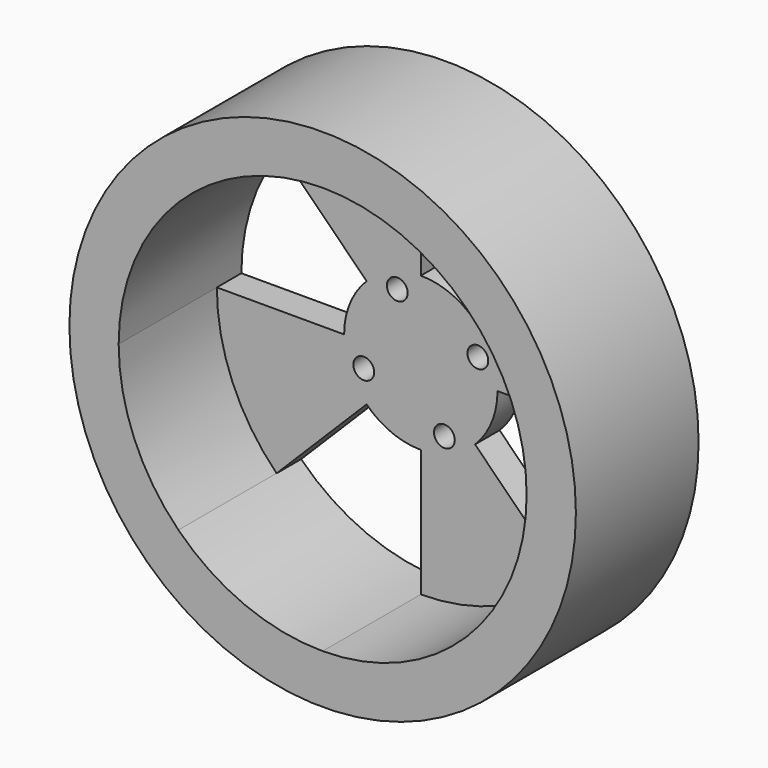
from build123d import *

# Parameters (mm, degrees)
F0_R     = 16.51
F1_DEPTH = 10
F0_R_2   = 0.678284
F2_DEPTH = 2


with BuildPart() as f1:
    # F0 (on Front) → F1 (new body)
    with BuildSketch(Plane.XZ):
        Circle(F0_R)
        with BuildLine():
            ThreePointArc((0, 13.297945), (5.088806, 12.285739), (9.402919, 9.403215))
            ThreePointArc((9.402919, 9.403215), (12.285659, 5.089), (13.297945, 0))
            ThreePointArc((13.297945, 0), (12.285739, -5.088806), (9.403215, -9.402919))
            ThreePointArc((9.403215, -9.402919), (5.089, -12.285659), (0, -13.297945))
            ThreePointArc((0, -13.297945), (-5.088806, -12.285739), (-9.402919, -9.403215))
            ThreePointArc((-9.402919, -9.403215), (-12.285659, -5.089), (-13.297945, 0))
            ThreePointArc((-13.297945, 0), (-12.285739, 5.088806), (-9.403215, 9.402919))
            ThreePointArc((-9.403215, 9.402919), (-5.089, 12.285659), (0, 13.297945))
        make_face(mode=Mode.SUBTRACT)
    extrude(amount=F1_DEPTH)

    # F0 (on Front) → F2 (join)
    with BuildSketch(Plane.XZ):
        with BuildLine():
            ThreePointArc((-3.535661, 3.535407), (-1.9135, 4.619363), (0, 5))
            Line((0, 5), (0, 13.297945))
            ThreePointArc((0, 13.297945), (-5.089, 12.285659), (-9.403215, 9.402919))
            Line((-9.403215, 9.402919), (-3.535661, 3.535407))
        make_face()
        with BuildLine():
            ThreePointArc((3.535661, -3.535407), (4.619432, -1.913334), (5, 0))
            ThreePointArc((5, 0), (4.619363, 1.9135), (3.535407, 3.535661))
            ThreePointArc((3.535407, 3.535661), (1.913334, 4.619432), (0, 5))
            ThreePointArc((0, 5), (-1.9135, 4.619363), (-3.535661, 3.535407))
            ThreePointArc((-3.535661, 3.535407), (-4.619432, 1.913334), (-5, 0))
            ThreePointArc((-5, 0), (-4.619363, -1.9135), (-3.535407, -3.535661))
            ThreePointArc((-3.535407, -3.535661), (-1.913334, -4.619432), (0, -5))
            ThreePointArc((0, -5), (1.9135, -4.619363), (3.535661, -3.535407))
        make_face()
        with Locations((-3.718694, -1.535661)):
            Circle(F0_R_2, mode=Mode.SUBTRACT)
        with Locations((1.535661, -3.71837)):
            Circle(F0_R_2, mode=Mode.SUBTRACT)
        with Locations((-1.535661, 3.718694)):
            Circle(F0_R_2, mode=Mode.SUBTRACT)
        with Locations((3.71837, 1.535661)):
            Circle(F0_R_2, mode=Mode.SUBTRACT)
        with BuildLine():
            ThreePointArc((3.535407, 3.535661), (4.619363, 1.9135), (5, 0))
            Line((5, 0), (5.000866, 0))
            Line((5.000866, 0), (13.297945, 0))
            ThreePointArc((13.297945, 0), (12.285659, 5.089), (9.402919, 9.403215))
            Line((9.402919, 9.403215), (3.535407, 3.535661))
        make_face()
        with BuildLine():
            Line((9.403215, -9.402919), (3.535661, -3.535407))
            ThreePointArc((3.535661, -3.535407), (1.9135, -4.619363), (0, -5))
            Line((0, -5), (0, -13.297945))
            ThreePointArc((0, -13.297945), (5.089, -12.285659), (9.403215, -9.402919))
        make_face()
        with BuildLine():
            Line((-9.402919, -9.403215), (-3.535407, -3.535661))
            ThreePointArc((-3.535407, -3.535661), (-4.619363, -1.9135), (-5, 0))
            Line((-5, 0), (-13.297945, 0))
            ThreePointArc((-13.297945, 0), (-12.285659, -5.089), (-9.402919, -9.403215))
        make_face()
    extrude(amount=F2_DEPTH)


solid = f1.part
